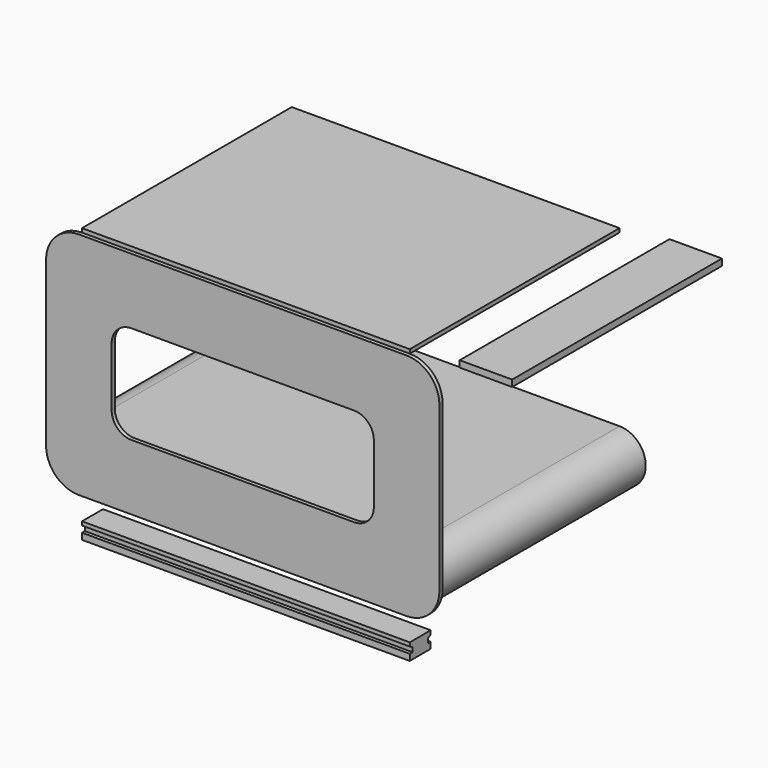
from build123d import *

# Parameters (mm, degrees)
F1_DEPTH       = 6
F2_R           = 50
F3_R           = 30
F5_DEPTH       = 6
F6_W           = 250
F6_H           = 200
F7_DEPTH       = 6
F8_R           = 30
F9_DEPTH       = 400
F11_DEPTH      = 250
F11_DEPTH_BACK = 250
F12_W          = 80
F12_H          = 200
F13_DEPTH      = 10


with BuildPart() as f1:
    # F0 (on Front) → F1 (new body)
    with BuildSketch(Plane.XZ):
        Polygon((-300, 0), (0, 0), (0, 100), (-200, 100), (-200, 250), (200, 250), (200, 175), (300, 175), (300, 350), (-300, 350), align=None)
        Polygon((0, 100), (0, 0), (300, 0), (300, 175), (200, 175), (200, 100), align=None)
    extrude(amount=F1_DEPTH)

    # F2
    f2_edges = [f1.edges().sort_by_distance(p)[0] for p in [
        (-300, -3, 350),
        (-300, -3, 0),
        (300, -3, 350),
        (300, -3, 0),
    ]]
    fillet(f2_edges, radius=F2_R)

    # F3
    f3_edges = [f1.edges().sort_by_distance(p)[0] for p in [
        (-200, -3, 250),
        (-200, -3, 100),
        (200, -3, 250),
        (200, -3, 100),
    ]]
    fillet(f3_edges, radius=F3_R)


with BuildPart() as f5:
    # F4 (on Top) → F5 (new body)
    with BuildSketch(Plane.XY):
        Polygon((-250, 0), (0, 0), (0, 50), (-200, 50), (-200, 350), (200, 350), (200, 200), (250, 200), (250, 400), (-250, 400), align=None)
        Polygon((0, 50), (0, 0), (250, 0), (250, 200), (200, 200), (200, 50), align=None)
    extrude(amount=F5_DEPTH)


with BuildPart() as f7:
    # F6 (on face) → F7 (new body)
    with BuildSketch(Plane.XY.offset(350)):
        Polygon((-250, 0), (0, 0), (0, 200), (250, 200), (250, 400), (-250, 400), align=None)
        with Locations((125, 100)):
            Rectangle(F6_W, F6_H)
    extrude(amount=F7_DEPTH)


with BuildPart() as f9:
    # F8 (on face) → F9 (new body)
    with BuildSketch(Plane(origin=(0, 0, 0), x_dir=(-1, 0, 0), z_dir=(0, 1, 0))):
        with BuildLine():
            Line((250, 90), (-250, 90))
            ThreePointArc((-250, 90), (-290, 50), (-250, 10))
            Line((-250, 10), (250, 10))
            ThreePointArc((250, 10), (290, 50), (250, 90))
        make_face()
        with Locations((-250, 50)):
            Circle(F8_R, mode=Mode.SUBTRACT)
        with BuildLine():
            Line((-223.542487, 80), (223.542487, 80))
            ThreePointArc((223.542487, 80), (210, 50), (223.542487, 20))
            Line((223.542487, 20), (-223.542487, 20))
            ThreePointArc((-223.542487, 20), (-210, 50), (-223.542487, 80))
        make_face(mode=Mode.SUBTRACT)
        with Locations((250, 50)):
            Circle(F8_R, mode=Mode.SUBTRACT)
    extrude(amount=F9_DEPTH)


with BuildPart() as f11:
    # F10 (on Right) → F11 (new body, two sides)
    with BuildSketch(Plane.YZ) as f11_sk:
        Polygon((40, -37.688328), (0, -37.688328), (0, -43.383155), (5.419665, -46.301808), (5.419665, -53.112), (0, -53.112), (0, -62.688328), (40, -62.688328), (40, -53.112), (34.580335, -53.112), (34.580335, -46.301808), (40, -43.383155), align=None)
    extrude(amount=F11_DEPTH)
    extrude(f11_sk.sketch, amount=-F11_DEPTH_BACK)


with BuildPart() as f13:
    # F12 (on face) → F13 (new body)
    with BuildSketch(Plane.XY.offset(356)):
        with Locations((366.204866, 300)):
            Rectangle(F12_W, F12_H)
        with Locations((366.204866, 100)):
            Rectangle(F12_W, F12_H)
    extrude(amount=F13_DEPTH)


solid = Compound([f1.part, f5.part, f7.part, f9.part, f11.part, f13.part])
